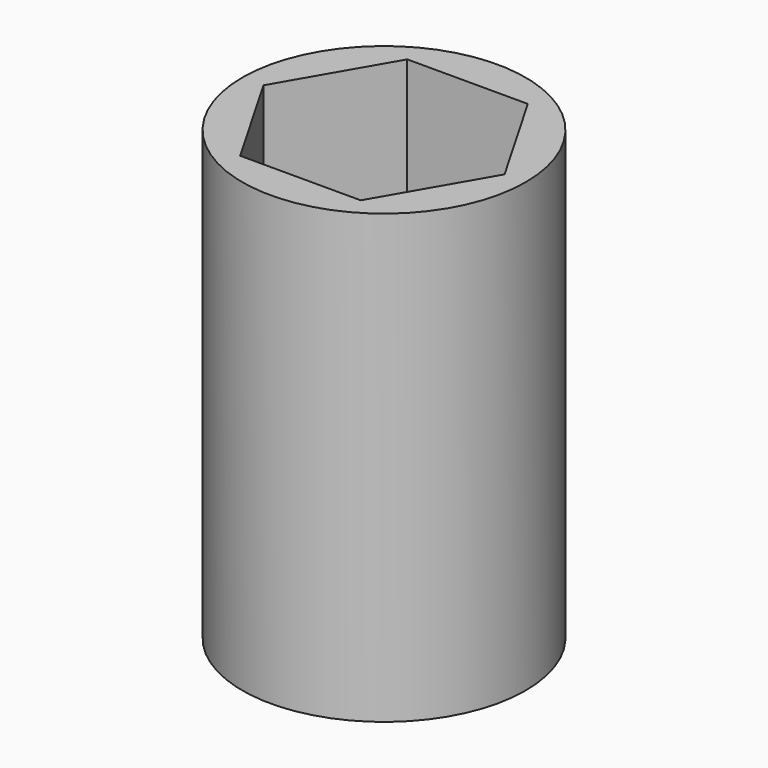
from build123d import *

# Parameters (mm, degrees)
F0_R     = 19
F1_DEPTH = 60
F3_DEPTH = 45
F4_W     = 10
F4_H     = 10
F5_DEPTH = 15


with BuildPart() as f1:
    # F0 (on Top) → F1 (new body)
    with BuildSketch(Plane.XY):
        Circle(F0_R)
    extrude(amount=F1_DEPTH)

    # F2 (on face) → F3 (cut)
    with BuildSketch(Plane.XY.offset(60)):
        Polygon((8.082904, 14), (-8.082904, 14), (-16.165808, 0), (-8.082904, -14), (8.082904, -14), (16.165808, 0), align=None)
    extrude(amount=-F3_DEPTH, mode=Mode.SUBTRACT)

    # F4 (on face) → F5 (cut, through all)
    with BuildSketch(Plane(origin=(0, 0, 0), x_dir=(1, 0, 0), z_dir=(0, 0, -1))):
        Rectangle(F4_W, F4_H)
    extrude(amount=-F5_DEPTH, mode=Mode.SUBTRACT)


solid = f1.part
